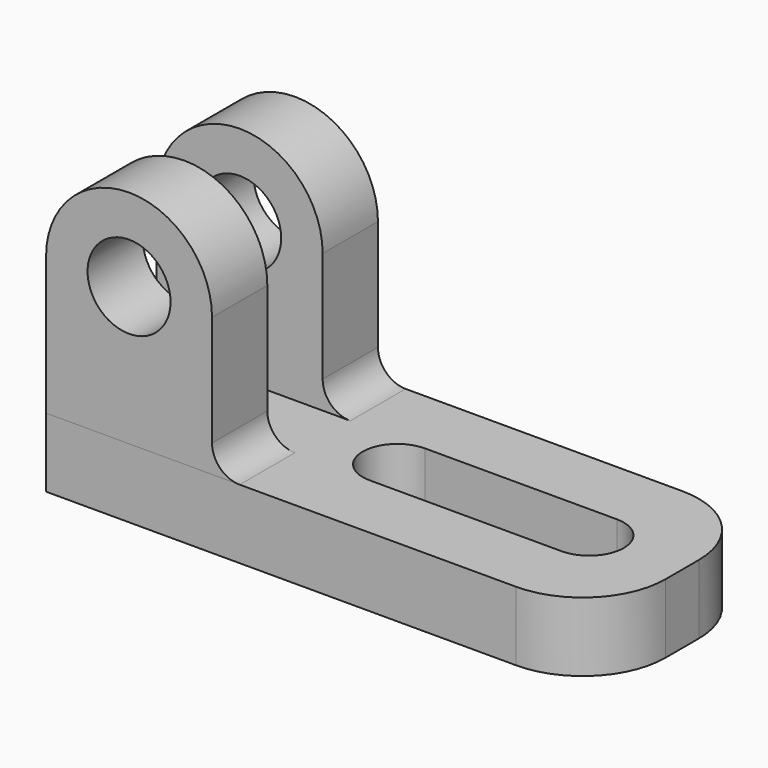
from build123d import *

# Parameters (mm, degrees)
F1_DEPTH = 75
F0_R     = 15
F2_DEPTH = 25
F3_R     = 15
F4_DEPTH = 25
F6_DEPTH = 25
F7_R     = 30


with BuildPart() as f1:
    # F0 (on Front) → F1 (new body)
    with BuildSketch(Plane.XZ):
        Polygon((40, -50), (-30, -50), (-30, -75), (170, -75), (170, -50), align=None)
    extrude(amount=F1_DEPTH)

    # F0 (on Front) → F2 (join)
    with BuildSketch(Plane.XZ):
        with BuildLine():
            Line((30, -40), (30, 0))
            ThreePointArc((30, 0), (0, 30), (-30, 0))
            Line((-30, 0), (-30, -50))
            Line((-30, -50), (40, -50))
            ThreePointArc((40, -50), (32.928932, -47.071068), (30, -40))
        make_face()
        Circle(F0_R, mode=Mode.SUBTRACT)
    extrude(amount=F2_DEPTH)

    # F5 (on face) → F6 (cut)
    with BuildSketch(Plane.XY.offset(-50)):
        with BuildLine():
            Line((136.387348, -25), (66.991508, -25))
            ThreePointArc((66.991508, -25), (54.491508, -37.5), (66.991508, -50))
            Line((66.991508, -50), (136.387348, -50))
            ThreePointArc((136.387348, -50), (148.887348, -37.5), (136.387348, -25))
        make_face()
    extrude(amount=-F6_DEPTH, mode=Mode.SUBTRACT)

    # F7
    f7_edges = [f1.edges().sort_by_distance(p)[0] for p in [
        (170, -75, -62.5),
        (170, 0, -62.5),
    ]]
    fillet(f7_edges, radius=F7_R)


with BuildPart() as f4:
    # F3 (on face) → F4 (new body)
    with BuildSketch(Plane.XZ.offset(75)):
        with BuildLine():
            Line((30, -40), (30, 0))
            ThreePointArc((30, 0), (0, 30), (-30, 0))
            Line((-30, 0), (-30, -50))
            Line((-30, -50), (30, -50))
            Line((30, -50), (40, -50))
            ThreePointArc((40, -50), (32.928932, -47.071068), (30, -40))
        make_face()
        Circle(F3_R, mode=Mode.SUBTRACT)
    extrude(amount=-F4_DEPTH)


solid = Compound([f1.part, f4.part])
